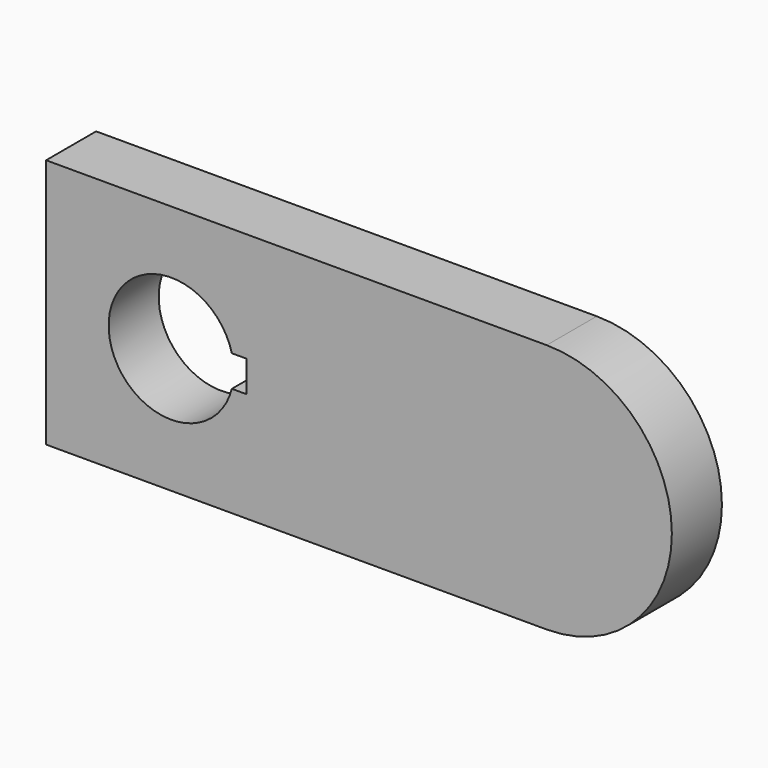
from build123d import *

# Parameters (mm, degrees)
F1_DEPTH = 10


with BuildPart() as f1:
    # F0 (on Front) → F1 (new body)
    with BuildSketch(Plane.XZ):
        with BuildLine():
            Line((-100, 0), (-20, 0))
            ThreePointArc((-20, 0), (0, 20), (-20, 40))
            Line((-20, 40), (-100, 40))
            Line((-100, 40), (-100, 0))
        make_face()
        with BuildLine():
            ThreePointArc((-70.317542, 17.5), (-90, 20), (-70.317542, 22.5))
            Line((-70.317542, 22.5), (-68, 22.5))
            Line((-68, 22.5), (-68, 20))
            Line((-68, 20), (-68, 17.5))
            Line((-68, 17.5), (-70.317542, 17.5))
        make_face(mode=Mode.SUBTRACT)
    extrude(amount=F1_DEPTH)


solid = f1.part
